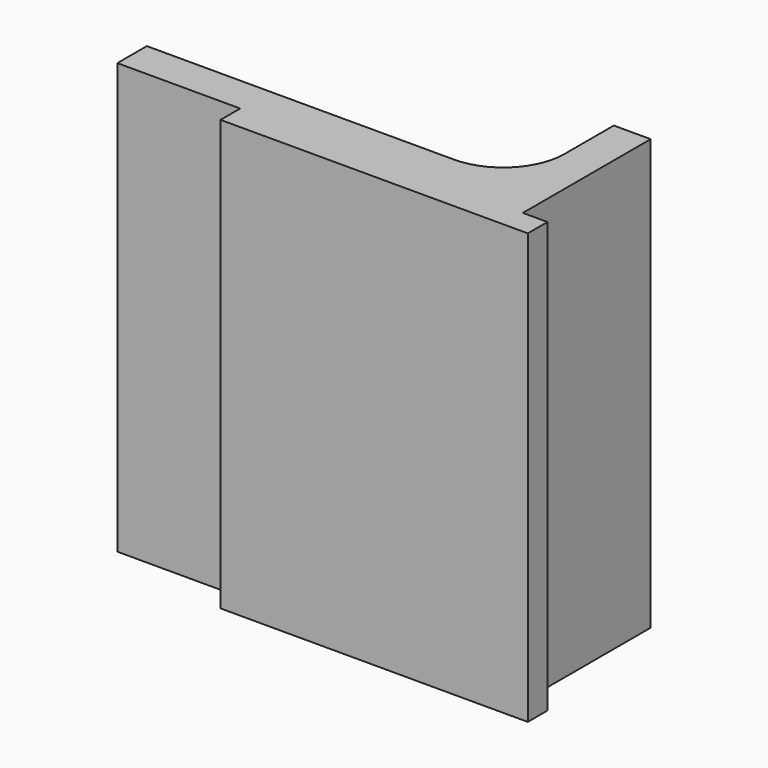
from build123d import *

# Parameters (mm, degrees)
F1_DEPTH = 17.5
F2_R     = 5


with BuildPart() as f1:
    # F0 (on Top) → F1 (new body, symmetric)
    with BuildSketch(Plane.XY):
        Polygon((-6.7937952719, 3), (-36.7937952719, 3), (-36.7937952719, 0), (-26.7937952719, 0), (-26.7937952719, -2), (-3.7937952719, -2), (-1.7937952719, -2), (-1.7937952719, 0), (-3.7937952719, 0), (-3.7937952719, 13), (-6.7937952719, 13), align=None)
    extrude(amount=F1_DEPTH, both=True)

    # F2
    f2_edges = [f1.edges().sort_by_distance(p)[0] for p in [
        (-6.793795, 3, 0),
    ]]
    fillet(f2_edges, radius=F2_R)


solid = f1.part
